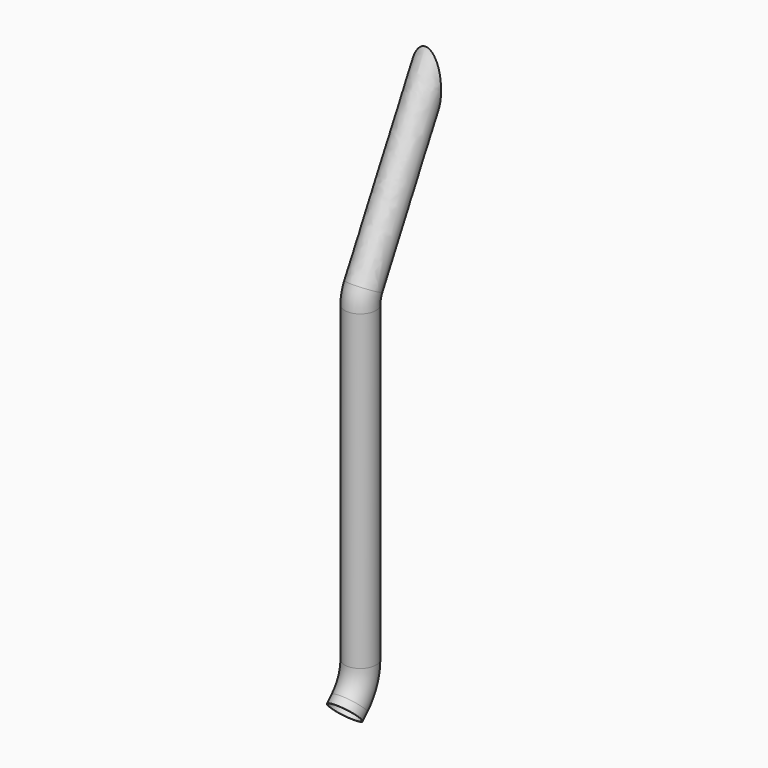
from build123d import *

# Parameters (mm, degrees)
F2_R     = 20
F2_R_2   = 19
F5_DEPTH = 25
F6_DEPTH = 25


with BuildPart() as f3:
    # F3: sweep along a path in F0
    with BuildLine(Plane.YZ) as f3_path:
        Line((0, 0), (7.426407, 7.426407))
        ThreePointArc((7.426407, 7.426407), (20.432772, 26.891808), (25, 49.852814))
        Line((25, 49.852814), (25, 449.852814))
        ThreePointArc((25, 449.852814), (26.188171, 459.52969), (29.682096, 468.631676))
        Line((29.682096, 468.631676), (147.049987, 689.368574))
    # F2 (on face) → F3 (sweep)
    with BuildSketch(Plane(origin=(0, 0, 0), x_dir=(1, 0, 0), z_dir=(0, 0.707107, 0.707107))):
        Circle(F2_R)
        Circle(F2_R_2, mode=Mode.SUBTRACT)
    sweep(path=f3_path.line)

    # F4 (on Right) → F5 (cut)
    with BuildSketch(Plane.YZ):
        Polygon((164.708939, 679.979143), (129.391035, 698.758006), (129.391035, 613.555827), align=None)
    extrude(amount=-F5_DEPTH, mode=Mode.SUBTRACT)

    # F4 (on Right) → F6 (cut)
    with BuildSketch(Plane.YZ):
        Polygon((164.708939, 679.979143), (129.391035, 698.758006), (129.391035, 613.555827), align=None)
    extrude(amount=F6_DEPTH, mode=Mode.SUBTRACT)


solid = f3.part
